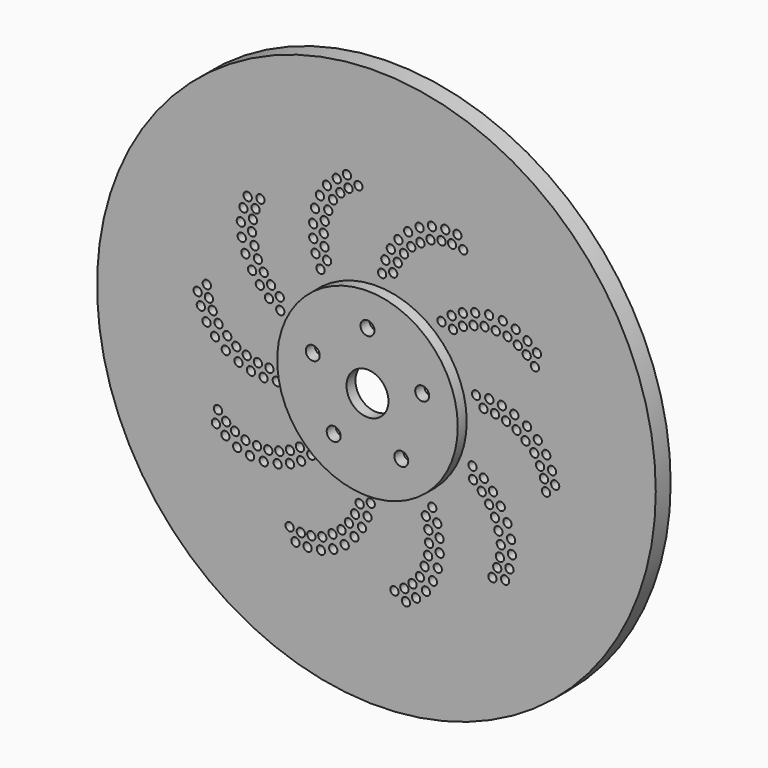
from build123d import *

# Parameters (mm, degrees)
F0_R     = 190.53778
F0_R_2   = 2.818565
F0_R_3   = 61.585142
F1_DEPTH = 12.7
F2_R     = 61.585142
F2_R_2   = 4.754451
F2_R_3   = 14.305254
F3_DEPTH = 7.62


with BuildPart() as f1:
    # F0 (on Front) → F1 (new body)
    with BuildSketch(Plane.XZ):
        Circle(F0_R)
        with Locations((-55.223208, -110.241086)):
            Circle(F0_R_2, mode=Mode.SUBTRACT)
        with Locations((-59.184616, -102.394959)):
            Circle(F0_R_2, mode=Mode.SUBTRACT)
        with Locations((-51.554547, -103.38003)):
            Circle(F0_R_2, mode=Mode.SUBTRACT)
        with Locations((-46.946578, -110.631413)):
            Circle(F0_R_2, mode=Mode.SUBTRACT)
        with Locations((-37.850202, -109.505321)):
            Circle(F0_R_2, mode=Mode.SUBTRACT)
        with Locations((-44.382349, -102.968666)):
            Circle(F0_R_2, mode=Mode.SUBTRACT)
        with Locations((-36.892793, -101.216131)):
            Circle(F0_R_2, mode=Mode.SUBTRACT)
        with Locations((-29.458413, -106.134527)):
            Circle(F0_R_2, mode=Mode.SUBTRACT)
        with Locations((-29.998892, -97.199083)):
            Circle(F0_R_2, mode=Mode.SUBTRACT)
        with Locations((-21.629691, -100.988055)):
            Circle(F0_R_2, mode=Mode.SUBTRACT)
        with Locations((-103.008092, -61.908187)):
            Circle(F0_R_2, mode=Mode.SUBTRACT)
        with Locations((-109.474599, -56.727525)):
            Circle(F0_R_2, mode=Mode.SUBTRACT)
        with Locations((-108.067607, -48.051418)):
            Circle(F0_R_2, mode=Mode.SUBTRACT)
        with Locations((-96.429538, -57.216111)):
            Circle(F0_R_2, mode=Mode.SUBTRACT)
        with Locations((-102.473761, -53.333199)):
            Circle(F0_R_2, mode=Mode.SUBTRACT)
        with Locations((-110.043084, -4.780756)):
            Circle(F0_R_2, mode=Mode.SUBTRACT)
        with Locations((-102.72929, -10.635967)):
            Circle(F0_R_2, mode=Mode.SUBTRACT)
        with Locations((-95.547576, -6.024188)):
            Circle(F0_R_2, mode=Mode.SUBTRACT)
        with Locations((-101.711989, -1.505526)):
            Circle(F0_R_2, mode=Mode.SUBTRACT)
        with Locations((-94.987069, -66.343875)):
            Circle(F0_R_2, mode=Mode.SUBTRACT)
        with Locations((-86.216667, -68.549415)):
            Circle(F0_R_2, mode=Mode.SUBTRACT)
        with Locations((-89.340246, -60.200531)):
            Circle(F0_R_2, mode=Mode.SUBTRACT)
        with Locations((-76.858077, -68.98744)):
            Circle(F0_R_2, mode=Mode.SUBTRACT)
        with Locations((-81.401801, -61.002804)):
            Circle(F0_R_2, mode=Mode.SUBTRACT)
        with Locations((-73.758684, -61.035126)):
            Circle(F0_R_2, mode=Mode.SUBTRACT)
        with Locations((-67.369601, -67.270576)):
            Circle(F0_R_2, mode=Mode.SUBTRACT)
        with Locations((-58.954958, -64.426895)):
            Circle(F0_R_2, mode=Mode.SUBTRACT)
        with Locations((-51.339099, -60.321853)):
            Circle(F0_R_2, mode=Mode.SUBTRACT)
        with Locations((-66.257259, -59.30046)):
            Circle(F0_R_2, mode=Mode.SUBTRACT)
        with Locations((-58.957408, -56.388938)):
            Circle(F0_R_2, mode=Mode.SUBTRACT)
        with Locations((-52.167201, -52.34115)):
            Circle(F0_R_2, mode=Mode.SUBTRACT)
        with Locations((-23.796482, -92.732721)):
            Circle(F0_R_2, mode=Mode.SUBTRACT)
        with Locations((-14.9625, -94.021897)):
            Circle(F0_R_2, mode=Mode.SUBTRACT)
        with Locations((-18.747313, -86.920119)):
            Circle(F0_R_2, mode=Mode.SUBTRACT)
        with Locations((-9.826384, -86.775308)):
            Circle(F0_R_2, mode=Mode.SUBTRACT)
        with Locations((-14.55296, -80.273904)):
            Circle(F0_R_2, mode=Mode.SUBTRACT)
        with Locations((-6.077908, -78.97777)):
            Circle(F0_R_2, mode=Mode.SUBTRACT)
        with Locations((-11.438797, -73.007991)):
            Circle(F0_R_2, mode=Mode.SUBTRACT)
        with Locations((-44.408699, -54.510356)):
            Circle(F0_R_2, mode=Mode.SUBTRACT)
        with Locations((-3.887009, -70.202583)):
            Circle(F0_R_2, mode=Mode.SUBTRACT)
        with Locations((-94.043805, -14.824181)):
            Circle(F0_R_2, mode=Mode.SUBTRACT)
        with Locations((-85.564742, -17.469598)):
            Circle(F0_R_2, mode=Mode.SUBTRACT)
        with Locations((-76.990499, -18.625039)):
            Circle(F0_R_2, mode=Mode.SUBTRACT)
        with Locations((-88.459184, -9.03004)):
            Circle(F0_R_2, mode=Mode.SUBTRACT)
        with Locations((-80.842131, -10.965314)):
            Circle(F0_R_2, mode=Mode.SUBTRACT)
        with Locations((-72.969508, -11.681768)):
            Circle(F0_R_2, mode=Mode.SUBTRACT)
        with Locations((-67.967775, -17.997027)):
            Circle(F0_R_2, mode=Mode.SUBTRACT)
        with Locations((20.121571, -121.6463)):
            Circle(F0_R_2, mode=Mode.SUBTRACT)
        with Locations((12.304887, -117.627107)):
            Circle(F0_R_2, mode=Mode.SUBTRACT)
        with Locations((19.056752, -113.939203)):
            Circle(F0_R_2, mode=Mode.SUBTRACT)
        with Locations((27.046934, -117.097199)):
            Circle(F0_R_2, mode=Mode.SUBTRACT)
        with Locations((24.617389, -109.390691)):
            Circle(F0_R_2, mode=Mode.SUBTRACT)
        with Locations((33.744156, -110.839456)):
            Circle(F0_R_2, mode=Mode.SUBTRACT)
        with Locations((29.646453, -103.57061)):
            Circle(F0_R_2, mode=Mode.SUBTRACT)
        with Locations((32.862574, -96.268617)):
            Circle(F0_R_2, mode=Mode.SUBTRACT)
        with Locations((38.551953, -103.179857)):
            Circle(F0_R_2, mode=Mode.SUBTRACT)
        with Locations((35.255168, -89.009568)):
            Circle(F0_R_2, mode=Mode.SUBTRACT)
        with Locations((41.860502, -94.414666)):
            Circle(F0_R_2, mode=Mode.SUBTRACT)
        with Locations((43.159768, -84.860049)):
            Circle(F0_R_2, mode=Mode.SUBTRACT)
        with Locations((35.410225, -73.496968)):
            Circle(F0_R_2, mode=Mode.SUBTRACT)
        with Locations((35.92347, -81.339248)):
            Circle(F0_R_2, mode=Mode.SUBTRACT)
        with Locations((43.055534, -75.978503)):
            Circle(F0_R_2, mode=Mode.SUBTRACT)
        with Locations((33.65884, -65.788262)):
            Circle(F0_R_2, mode=Mode.SUBTRACT)
        with Locations((41.504838, -67.466862)):
            Circle(F0_R_2, mode=Mode.SUBTRACT)
        with Locations((38.119386, -59.079809)):
            Circle(F0_R_2, mode=Mode.SUBTRACT)
        with Locations((79.094341, -87.929697)):
            Circle(F0_R_2, mode=Mode.SUBTRACT)
        with Locations((87.780594, -86.586761)):
            Circle(F0_R_2, mode=Mode.SUBTRACT)
        with Locations((82.38902, -80.977474)):
            Circle(F0_R_2, mode=Mode.SUBTRACT)
        with Locations((90.709436, -78.835835)):
            Circle(F0_R_2, mode=Mode.SUBTRACT)
        with Locations((84.214121, -74.02919)):
            Circle(F0_R_2, mode=Mode.SUBTRACT)
        with Locations((84.861761, -66.364636)):
            Circle(F0_R_2, mode=Mode.SUBTRACT)
        with Locations((92.449394, -69.836686)):
            Circle(F0_R_2, mode=Mode.SUBTRACT)
        with Locations((91.836783, -60.813989)):
            Circle(F0_R_2, mode=Mode.SUBTRACT)
        with Locations((83.171654, -58.566811)):
            Circle(F0_R_2, mode=Mode.SUBTRACT)
        with Locations((80.840541, -51.287786)):
            Circle(F0_R_2, mode=Mode.SUBTRACT)
        with Locations((89.361406, -51.778084)):
            Circle(F0_R_2, mode=Mode.SUBTRACT)
        with Locations((65.899943, -33.439652)):
            Circle(F0_R_2, mode=Mode.SUBTRACT)
        with Locations((65.565471, -25.390557)):
            Circle(F0_R_2, mode=Mode.SUBTRACT)
        with Locations((76.872708, -44.689548)):
            Circle(F0_R_2, mode=Mode.SUBTRACT)
        with Locations((71.847908, -38.646688)):
            Circle(F0_R_2, mode=Mode.SUBTRACT)
        with Locations((79.491702, -36.160492)):
            Circle(F0_R_2, mode=Mode.SUBTRACT)
        with Locations((84.796471, -43.284547)):
            Circle(F0_R_2, mode=Mode.SUBTRACT)
        with Locations((73.234146, -30.185907)):
            Circle(F0_R_2, mode=Mode.SUBTRACT)
        with Locations((115.672445, -24.646132)):
            Circle(F0_R_2, mode=Mode.SUBTRACT)
        with Locations((114.251482, -17.085102)):
            Circle(F0_R_2, mode=Mode.SUBTRACT)
        with Locations((111.643921, -10.391054)):
            Circle(F0_R_2, mode=Mode.SUBTRACT)
        with Locations((107.662761, -3.809627)):
            Circle(F0_R_2, mode=Mode.SUBTRACT)
        with Locations((115.842105, -2.158676)):
            Circle(F0_R_2, mode=Mode.SUBTRACT)
        with Locations((121.910414, -18.454023)):
            Circle(F0_R_2, mode=Mode.SUBTRACT)
        with Locations((119.724016, -10.461862)):
            Circle(F0_R_2, mode=Mode.SUBTRACT)
        with Locations((-119.724016, 10.461862)):
            Circle(F0_R_2, mode=Mode.SUBTRACT)
        with Locations((-121.910414, 18.454023)):
            Circle(F0_R_2, mode=Mode.SUBTRACT)
        with Locations((-115.842105, 2.158676)):
            Circle(F0_R_2, mode=Mode.SUBTRACT)
        with Locations((-107.662761, 3.809627)):
            Circle(F0_R_2, mode=Mode.SUBTRACT)
        with Locations((-111.643921, 10.391054)):
            Circle(F0_R_2, mode=Mode.SUBTRACT)
        with Locations((-114.251482, 17.085102)):
            Circle(F0_R_2, mode=Mode.SUBTRACT)
        with Locations((-115.672445, 24.646132)):
            Circle(F0_R_2, mode=Mode.SUBTRACT)
        with Locations((-73.234146, 30.185907)):
            Circle(F0_R_2, mode=Mode.SUBTRACT)
        with Locations((-84.796471, 43.284547)):
            Circle(F0_R_2, mode=Mode.SUBTRACT)
        with Locations((-79.491702, 36.160492)):
            Circle(F0_R_2, mode=Mode.SUBTRACT)
        with Locations((-71.847908, 38.646688)):
            Circle(F0_R_2, mode=Mode.SUBTRACT)
        with Locations((-76.872708, 44.689548)):
            Circle(F0_R_2, mode=Mode.SUBTRACT)
        with Locations((-65.565472, 25.390555)):
            Circle(F0_R_2, mode=Mode.SUBTRACT)
        with Locations((-65.899943, 33.439652)):
            Circle(F0_R_2, mode=Mode.SUBTRACT)
        with Locations((-89.361406, 51.778084)):
            Circle(F0_R_2, mode=Mode.SUBTRACT)
        with Locations((-80.840541, 51.287786)):
            Circle(F0_R_2, mode=Mode.SUBTRACT)
        with Locations((-83.171654, 58.566811)):
            Circle(F0_R_2, mode=Mode.SUBTRACT)
        with Locations((-91.836783, 60.813989)):
            Circle(F0_R_2, mode=Mode.SUBTRACT)
        with Locations((-92.449394, 69.836686)):
            Circle(F0_R_2, mode=Mode.SUBTRACT)
        with Locations((-84.861761, 66.364636)):
            Circle(F0_R_2, mode=Mode.SUBTRACT)
        with Locations((-84.214121, 74.02919)):
            Circle(F0_R_2, mode=Mode.SUBTRACT)
        with Locations((-90.709436, 78.835835)):
            Circle(F0_R_2, mode=Mode.SUBTRACT)
        with Locations((-82.38902, 80.977474)):
            Circle(F0_R_2, mode=Mode.SUBTRACT)
        with Locations((-87.780594, 86.586761)):
            Circle(F0_R_2, mode=Mode.SUBTRACT)
        with Locations((-79.094341, 87.929697)):
            Circle(F0_R_2, mode=Mode.SUBTRACT)
        with Locations((-38.119383, 59.079811)):
            Circle(F0_R_2, mode=Mode.SUBTRACT)
        with Locations((-41.504838, 67.466862)):
            Circle(F0_R_2, mode=Mode.SUBTRACT)
        with Locations((-33.65884, 65.788262)):
            Circle(F0_R_2, mode=Mode.SUBTRACT)
        with Locations((-43.055534, 75.978503)):
            Circle(F0_R_2, mode=Mode.SUBTRACT)
        with Locations((-35.92347, 81.339248)):
            Circle(F0_R_2, mode=Mode.SUBTRACT)
        with Locations((-35.410225, 73.496968)):
            Circle(F0_R_2, mode=Mode.SUBTRACT)
        with Locations((-43.159768, 84.860049)):
            Circle(F0_R_2, mode=Mode.SUBTRACT)
        with Locations((-41.860502, 94.414666)):
            Circle(F0_R_2, mode=Mode.SUBTRACT)
        with Locations((-35.255168, 89.009568)):
            Circle(F0_R_2, mode=Mode.SUBTRACT)
        with Locations((-38.551953, 103.179857)):
            Circle(F0_R_2, mode=Mode.SUBTRACT)
        with Locations((-32.862574, 96.268617)):
            Circle(F0_R_2, mode=Mode.SUBTRACT)
        with Locations((-29.646453, 103.57061)):
            Circle(F0_R_2, mode=Mode.SUBTRACT)
        with Locations((-33.744156, 110.839456)):
            Circle(F0_R_2, mode=Mode.SUBTRACT)
        with Locations((-24.617389, 109.390691)):
            Circle(F0_R_2, mode=Mode.SUBTRACT)
        with Locations((-27.046934, 117.097199)):
            Circle(F0_R_2, mode=Mode.SUBTRACT)
        with Locations((-19.056752, 113.939203)):
            Circle(F0_R_2, mode=Mode.SUBTRACT)
        with Locations((-12.304887, 117.627107)):
            Circle(F0_R_2, mode=Mode.SUBTRACT)
        with Locations((-20.121571, 121.6463)):
            Circle(F0_R_2, mode=Mode.SUBTRACT)
        Circle(F0_R_3, mode=Mode.SUBTRACT)
        with Locations((67.967776, 17.997024)):
            Circle(F0_R_2, mode=Mode.SUBTRACT)
        with Locations((72.969508, 11.681768)):
            Circle(F0_R_2, mode=Mode.SUBTRACT)
        with Locations((80.842131, 10.965314)):
            Circle(F0_R_2, mode=Mode.SUBTRACT)
        with Locations((88.459184, 9.03004)):
            Circle(F0_R_2, mode=Mode.SUBTRACT)
        with Locations((76.990499, 18.625039)):
            Circle(F0_R_2, mode=Mode.SUBTRACT)
        with Locations((85.564742, 17.469598)):
            Circle(F0_R_2, mode=Mode.SUBTRACT)
        with Locations((94.043805, 14.824181)):
            Circle(F0_R_2, mode=Mode.SUBTRACT)
        with Locations((3.887012, 70.202582)):
            Circle(F0_R_2, mode=Mode.SUBTRACT)
        with Locations((44.408701, 54.510354)):
            Circle(F0_R_2, mode=Mode.SUBTRACT)
        with Locations((11.438797, 73.007991)):
            Circle(F0_R_2, mode=Mode.SUBTRACT)
        with Locations((6.077908, 78.97777)):
            Circle(F0_R_2, mode=Mode.SUBTRACT)
        with Locations((14.55296, 80.273904)):
            Circle(F0_R_2, mode=Mode.SUBTRACT)
        with Locations((9.826384, 86.775308)):
            Circle(F0_R_2, mode=Mode.SUBTRACT)
        with Locations((18.747313, 86.920119)):
            Circle(F0_R_2, mode=Mode.SUBTRACT)
        with Locations((14.9625, 94.021897)):
            Circle(F0_R_2, mode=Mode.SUBTRACT)
        with Locations((23.796482, 92.732721)):
            Circle(F0_R_2, mode=Mode.SUBTRACT)
        with Locations((52.167201, 52.34115)):
            Circle(F0_R_2, mode=Mode.SUBTRACT)
        with Locations((58.957408, 56.388938)):
            Circle(F0_R_2, mode=Mode.SUBTRACT)
        with Locations((66.257259, 59.30046)):
            Circle(F0_R_2, mode=Mode.SUBTRACT)
        with Locations((51.339099, 60.321853)):
            Circle(F0_R_2, mode=Mode.SUBTRACT)
        with Locations((58.954958, 64.426895)):
            Circle(F0_R_2, mode=Mode.SUBTRACT)
        with Locations((67.369601, 67.270576)):
            Circle(F0_R_2, mode=Mode.SUBTRACT)
        with Locations((73.758684, 61.035126)):
            Circle(F0_R_2, mode=Mode.SUBTRACT)
        with Locations((81.401801, 61.002804)):
            Circle(F0_R_2, mode=Mode.SUBTRACT)
        with Locations((76.858077, 68.98744)):
            Circle(F0_R_2, mode=Mode.SUBTRACT)
        with Locations((89.340246, 60.200531)):
            Circle(F0_R_2, mode=Mode.SUBTRACT)
        with Locations((86.216667, 68.549415)):
            Circle(F0_R_2, mode=Mode.SUBTRACT)
        with Locations((94.987069, 66.343875)):
            Circle(F0_R_2, mode=Mode.SUBTRACT)
        with Locations((101.711989, 1.505526)):
            Circle(F0_R_2, mode=Mode.SUBTRACT)
        with Locations((95.547576, 6.024188)):
            Circle(F0_R_2, mode=Mode.SUBTRACT)
        with Locations((102.72929, 10.635967)):
            Circle(F0_R_2, mode=Mode.SUBTRACT)
        with Locations((110.043084, 4.780756)):
            Circle(F0_R_2, mode=Mode.SUBTRACT)
        with Locations((102.473761, 53.333199)):
            Circle(F0_R_2, mode=Mode.SUBTRACT)
        with Locations((96.429538, 57.216111)):
            Circle(F0_R_2, mode=Mode.SUBTRACT)
        with Locations((108.067607, 48.051418)):
            Circle(F0_R_2, mode=Mode.SUBTRACT)
        with Locations((109.474599, 56.727525)):
            Circle(F0_R_2, mode=Mode.SUBTRACT)
        with Locations((103.008092, 61.908187)):
            Circle(F0_R_2, mode=Mode.SUBTRACT)
        with Locations((21.629691, 100.988055)):
            Circle(F0_R_2, mode=Mode.SUBTRACT)
        with Locations((29.998892, 97.199083)):
            Circle(F0_R_2, mode=Mode.SUBTRACT)
        with Locations((29.458413, 106.134527)):
            Circle(F0_R_2, mode=Mode.SUBTRACT)
        with Locations((36.892793, 101.216131)):
            Circle(F0_R_2, mode=Mode.SUBTRACT)
        with Locations((44.382349, 102.968666)):
            Circle(F0_R_2, mode=Mode.SUBTRACT)
        with Locations((37.850202, 109.505321)):
            Circle(F0_R_2, mode=Mode.SUBTRACT)
        with Locations((46.946578, 110.631413)):
            Circle(F0_R_2, mode=Mode.SUBTRACT)
        with Locations((51.554547, 103.38003)):
            Circle(F0_R_2, mode=Mode.SUBTRACT)
        with Locations((59.184616, 102.394959)):
            Circle(F0_R_2, mode=Mode.SUBTRACT)
        with Locations((55.223208, 110.241086)):
            Circle(F0_R_2, mode=Mode.SUBTRACT)
    extrude(amount=F1_DEPTH)

    # F2 (on face) → F3 (join)
    with BuildSketch(Plane.XZ.offset(12.7)):
        Circle(F2_R)
        with Locations((-23.061672, -31.741661)):
            Circle(F2_R_2, mode=Mode.SUBTRACT)
        with Locations((23.061667, -31.741665)):
            Circle(F2_R_2, mode=Mode.SUBTRACT)
        with Locations((-37.314562, 12.124242)):
            Circle(F2_R_2, mode=Mode.SUBTRACT)
        Circle(F2_R_3, mode=Mode.SUBTRACT)
        with Locations((37.314564, 12.124235)):
            Circle(F2_R_2, mode=Mode.SUBTRACT)
        with Locations((0, 39.234854)):
            Circle(F2_R_2, mode=Mode.SUBTRACT)
    extrude(amount=F3_DEPTH)


solid = f1.part
